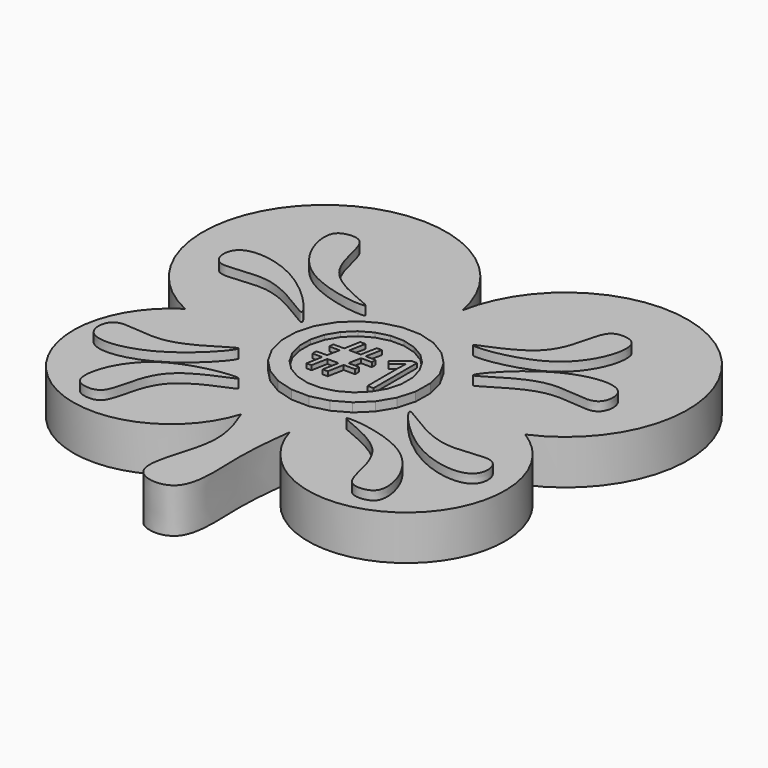
from build123d import *

# Parameters (mm, degrees)
F1_DEPTH = 10
F3_DEPTH = 2
F5_DEPTH = 3
F7_DEPTH = 2
F9_DEPTH = 1


with BuildPart() as f1:
    # F0 (on Top) → F1 (new body)
    with BuildSketch(Plane.XY):
        with BuildLine():
            ThreePointArc((5.2465582266, -25.1229386777), (39.9278952952, -36.4293293432), (38.0481148949, 0))
            ThreePointArc((38.0481148949, 0), (43.9903332541, 46.6829640852), (0, 29.9659166485))
            ThreePointArc((0, 29.9659166485), (-43.6598046287, 46.3170819649), (-38.3431265611, 0))
            ThreePointArc((-38.3431265611, 0), (-39.9973872697, -35.9862148248), (-5.6501389481, -25.1229386777))
            add(Edge.make_bspline(
                [(-5.6501389481, -25.1229386777), (-4.1916466399, -28.8690808256), (-1.1202585612, -36.7579509075), (-10.0320061633, -54.1144485244), (5.5480001376, -56.0214414687), (3.6125106171, -37.8872610962), (4.7091382153, -29.3209817816), (5.2465582266, -25.1229386777)],
                knots=[0, 0, 0, 0, 0.198713372, 0.418463559, 0.5747219053, 0.7915856223, 1, 1, 1, 1], degree=3))
        make_face()
    extrude(amount=F1_DEPTH)

    # F2 (on face) → F3 (join)
    with BuildSketch(Plane.XY.offset(10)):
        with BuildLine():
            add(Edge.make_bspline(
                [(-12.115384452, 17.7758522332), (-12.0477325559, 18.3722405826), (-26.7391788668, 21.997137016), (-25.9782016254, 36.862024018), (-31.4906481556, 37.1531573895), (-35.4346373167, 35.0820826366), (-30.4255578343, 18.7434033587), (-12.1909189394, 17.1099745445), (-12.115384452, 17.7758522332)],
                knots=[0, 0, 0, 0, 0.189436692, 0.3829883144, 0.4867522438, 0.5816350618, 0.7884907264, 1, 1, 1, 1], degree=3))
        make_face()
        with BuildLine():
            add(Edge.make_bspline(
                [(-19.2654486746, 8.8382726535), (-18.6595280619, 9.1938957017), (-28.2235770794, 20.7563957421), (-44.6404306947, 22.9119877062), (-43.4721247307, 11.7905165534), (-30.9888928197, 17.8184264205), (-19.8587277884, 8.4900690729), (-19.2654486746, 8.8382726535)],
                knots=[0, 0, 0, 0, 0.2187350277, 0.4445027594, 0.5807818664, 0.7858285051, 1, 1, 1, 1], degree=3))
        make_face()
        with BuildLine():
            add(Edge.make_bspline(
                [(19.2654486746, 8.8382726535), (18.6595280619, 9.1938957017), (28.2235770794, 20.7563957421), (44.6404306947, 22.9119877062), (43.4721247307, 11.7905165534), (30.9888928197, 17.8184264205), (19.8587277884, 8.4900690729), (19.2654486746, 8.8382726535)],
                knots=[0, 0, 0, 0, 0.2187350277, 0.4445027594, 0.5807818664, 0.7858285051, 1, 1, 1, 1], degree=3))
        make_face()
        with BuildLine():
            add(Edge.make_bspline(
                [(12.115384452, 17.7758522332), (12.0477325559, 18.3722405826), (26.7391788668, 21.997137016), (25.9782016254, 36.862024018), (31.4906481556, 37.1531573895), (35.4346373167, 35.0820826366), (30.4255578343, 18.7434033587), (12.1909189394, 17.1099745445), (12.115384452, 17.7758522332)],
                knots=[0, 0, 0, 0, 0.189436692, 0.3829883144, 0.4867522438, 0.5816350618, 0.7884907264, 1, 1, 1, 1], degree=3))
        make_face()
        with BuildLine():
            add(Edge.make_bspline(
                [(19.2654486746, -8.8382726535), (18.6595280619, -9.1938957017), (28.2235770794, -20.7563957421), (44.6404306947, -22.9119877062), (43.4721247307, -11.7905165534), (30.9888928197, -17.8184264205), (19.8587277884, -8.4900690729), (19.2654486746, -8.8382726535)],
                knots=[0, 0, 0, 0, 0.2187350277, 0.4445027594, 0.5807818664, 0.7858285051, 1, 1, 1, 1], degree=3))
        make_face()
        with BuildLine():
            add(Edge.make_bspline(
                [(12.115384452, -17.7758522332), (12.0477325559, -18.3722405826), (26.7391788668, -21.997137016), (25.9782016254, -36.862024018), (31.4906481556, -37.1531573895), (35.4346373167, -35.0820826366), (30.4255578343, -18.7434033587), (12.1909189394, -17.1099745445), (12.115384452, -17.7758522332)],
                knots=[0, 0, 0, 0, 0.189436692, 0.3829883144, 0.4867522438, 0.5816350618, 0.7884907264, 1, 1, 1, 1], degree=3))
        make_face()
        with BuildLine():
            add(Edge.make_bspline(
                [(-19.2654486746, -8.8382726535), (-18.6595280619, -9.1938957017), (-28.2235770794, -20.7563957421), (-44.6404306947, -22.9119877062), (-43.4721247307, -11.7905165534), (-30.9888928197, -17.8184264205), (-19.8587277884, -8.4900690729), (-19.2654486746, -8.8382726535)],
                knots=[0, 0, 0, 0, 0.2187350277, 0.4445027594, 0.5807818664, 0.7858285051, 1, 1, 1, 1], degree=3))
        make_face()
        with BuildLine():
            add(Edge.make_bspline(
                [(-12.115384452, -17.7758522332), (-12.0477325559, -18.3722405826), (-26.7391788668, -21.997137016), (-25.9782016254, -36.862024018), (-31.4906481556, -37.1531573895), (-35.4346373167, -35.0820826366), (-30.4255578343, -18.7434033587), (-12.1909189394, -17.1099745445), (-12.115384452, -17.7758522332)],
                knots=[0, 0, 0, 0, 0.189436692, 0.3829883144, 0.4867522438, 0.5816350618, 0.7884907264, 1, 1, 1, 1], degree=3))
        make_face()
    extrude(amount=F3_DEPTH)

    # F4 (on face) → F5 (cut)
    with BuildSketch(Plane(origin=(0, 0, 0), x_dir=(1, 0, 0), z_dir=(0, 0, -1))):
        Polygon((3.9464184083, 17.1217415482), (0, 17.1217415482), (-3.9464184083, 17.1217415482), (-3.9464184083, -22.9638423771), (0, -22.9638423771), (3.9464184083, -22.9638423771), align=None)
    extrude(amount=-F5_DEPTH, mode=Mode.SUBTRACT)

    # F6 (on face) → F7 (join)
    with BuildSketch(Plane.XY.offset(10)):
        Polygon((12.0756087543, -9.5709682292), (14.1412912218, -6.1194478684), (15.2432680621, -2.2508972482), (15.3064413746, 1.7710482997), (14.3265060025, 5.6722998328), (12.3702429221, 9.1869935062), (9.5709682292, 12.0756087543), (6.1194478684, 14.1412912218), (2.2508972482, 15.2432680621), (-1.7710482997, 15.3064413746), (-5.6722998328, 14.3265060025), (-9.1869935062, 12.3702429221), (-12.0756087543, 9.5709682292), (-14.1412912218, 6.1194478684), (-15.2432680621, 2.2508972482), (-15.3064413746, -1.7710482997), (-14.3265060025, -5.6722998328), (-12.3702429221, -9.1869935062), (-9.5709682292, -12.0756087543), (-6.1194478684, -14.1412912218), (-2.2508972482, -15.2432680621), (1.7710482997, -15.3064413746), (5.6722998328, -14.3265060025), (9.1869935062, -12.3702429221), align=None)
    extrude(amount=F7_DEPTH)

    # F8 (on face) → F9 (cut)
    with BuildSketch(Plane.XY.offset(12)):
        Polygon((9.159280829, -7.166473292), (10.7020056771, -4.5516853182), (11.5154065243, -1.6267075119), (11.5440514469, 1.409127723), (10.7859883409, 4.3489332323), (9.2928779541, 6.9923661287), (7.166473292, 9.159280829), (4.5516853182, 10.7020056771), (1.6267075119, 11.5154065243), (-1.409127723, 11.5440514469), (-4.3489332323, 10.7859883409), (-6.9923661287, 9.2928779541), (-9.159280829, 7.166473292), (-10.7020056771, 4.5516853182), (-11.5154065243, 1.6267075119), (-11.5440514469, -1.409127723), (-10.7859883409, -4.3489332323), (-9.2928779541, -6.9923661287), (-7.166473292, -9.159280829), (-4.5516853182, -10.7020056771), (-1.6267075119, -11.5154065243), (1.409127723, -11.5440514469), (4.3489332323, -10.7859883409), (6.9923661287, -9.2928779541), align=None)
        Polygon((2.2645130211, 1.6474347889), (-0.1485816986, 1.6474347889), (-0.7017495912, -1.1905570078), (1.6632435727, -1.1905570078), (1.6632435727, -2.2674973976), (-0.9021727407, -2.2674973976), (-1.6023176096, -5.8590802364), (-2.746065716, -5.8590802364), (-2.0459208471, -2.2674973976), (-4.5765971479, -2.2674973976), (-5.2607081648, -5.8590802364), (-6.3964393452, -5.8590802364), (-5.7283621803, -2.2674973976), (-7.9169829726, -2.2674973976), (-7.9169829726, -1.1905570078), (-5.5199221048, -1.1905570078), (-4.9507203603, 1.6474347889), (-7.2649396597, 1.6474347889), (-7.2649396597, 2.7083413269), (-4.7663310628, 2.7083413269), (-4.0822200459, 6.3506980302), (-2.9224380875, 6.3506980302), (-3.6065491044, 2.7083413269), (-1.0598389516, 2.7083413269), (-0.3570217741, 6.3506980302), (0.7600032457, 6.3506980302), (0.0598583768, 2.7083413269), (2.2645130211, 2.7083413269), align=None, mode=Mode.SUBTRACT)
        with BuildLine():
            Line((8.675381496, 6.3506980302), (8.675381496, -5.8590802364))
            Line((8.675381496, -5.8590802364), (7.3231933141, -5.8590802364))
            Line((7.3231933141, -5.8590802364), (7.3231933141, 2.8419567599))
            add(Edge.make_bspline(
                [(7.3231933141, 2.8419567599), (7.3231933141, 3.9295863844), (7.3900010306, 4.8969621192)],
                knots=[0, 0, 0, 1, 1, 1], degree=2))
            add(Edge.make_bspline(
                [(7.3900010306, 4.8969621192), (7.2163009677, 4.7205897477), (6.998507812, 4.5295196785)],
                knots=[0, 0, 0, 1, 1, 1], degree=2))
            add(Edge.make_bspline(
                [(6.998507812, 4.5295196785), (6.7807146562, 4.3384496093), (5.0116463234, 2.9007475504)],
                knots=[0, 0, 0, 1, 1, 1], degree=2))
            Line((5.0116463234, 2.9007475504), (4.276761442, 3.8520894333))
            Line((4.276761442, 3.8520894333), (7.5075826117, 6.3506980302))
            Line((7.5075826117, 6.3506980302), (8.675381496, 6.3506980302))
        make_face(mode=Mode.SUBTRACT)
    extrude(amount=-F9_DEPTH, mode=Mode.SUBTRACT)


solid = f1.part
